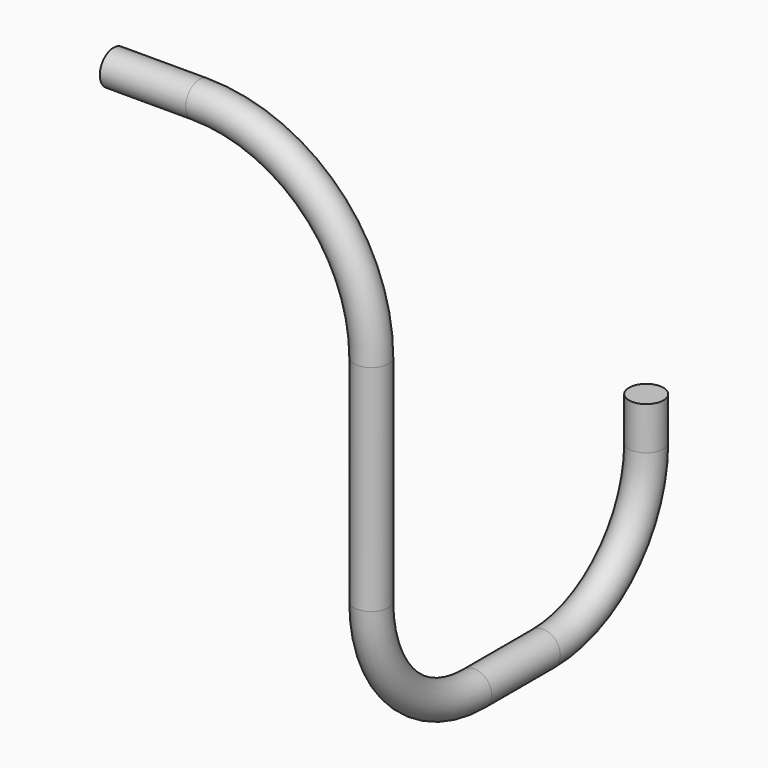
from build123d import *

# Parameters (mm, degrees)
F3_R = 20


with BuildPart() as f4:
    # F4: sweep along a path in F0, F2
    with BuildLine(Plane.XZ) as f4_path:
        Line((0, 0), (100, 0))
        ThreePointArc((100, 0), (241.4213562373, -58.5786437627), (300, -200))
    with BuildLine(Plane.YZ.offset(300)) as f4_path_2:
        Line((0, -200), (0, -450))
        ThreePointArc((0, -450), (43.933982822, -556.066017178), (150, -600))
        Line((150, -600), (250, -600))
        ThreePointArc((250, -600), (356.066017178, -556.066017178), (400, -450))
        Line((400, -450), (400, -400))
    # F3 (on Right) → F4 (sweep)
    with BuildSketch(Plane.YZ):
        Circle(F3_R)
    sweep(path=f4_path.line + f4_path_2.line)


solid = f4.part
